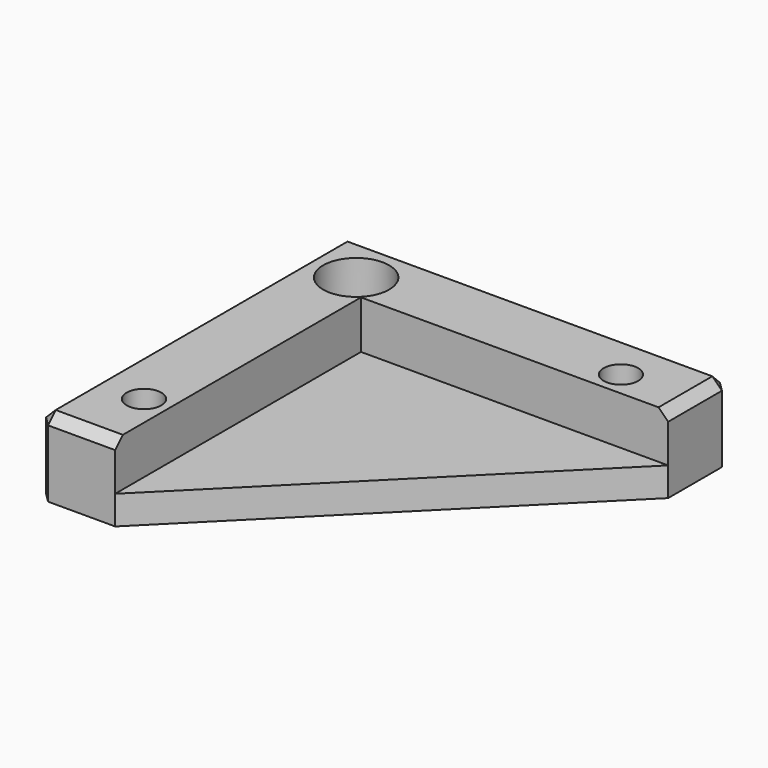
from build123d import *

# Parameters (mm, degrees)
F0_R     = 1.8
F0_R_2   = 3.435534
F1_DEPTH = 8
F2_DEPTH = 3
F3_R     = 1.8
F4_DEPTH = 2.4
F5_SIZE  = 1


with BuildPart() as f1:
    # F0 (on Top) → F1 (new body)
    with BuildSketch(Plane.XY):
        Polygon((34.5, 5.5), (-5.5, 5.5), (-5.5, -34.5), (2.5, -34.5), (2.5, -2.5), (34.5, -2.5), align=None)
        with Locations((-0.1, -27.5)):
            Circle(F0_R, mode=Mode.SUBTRACT)
        Circle(F0_R_2, mode=Mode.SUBTRACT)
        with Locations((27.5, 0.1)):
            Circle(F0_R, mode=Mode.SUBTRACT)
    extrude(amount=F1_DEPTH)

    # F0 (on Top) → F2 (join)
    with BuildSketch(Plane.XY):
        Polygon((2.5, -34.5), (34.5, -2.5), (2.5, -2.5), align=None)
        Circle(F0_R_2)
        Circle(F0_R, mode=Mode.SUBTRACT)
    extrude(amount=F2_DEPTH)

    # F3 (on face) → F4 (cut)
    with BuildSketch(Plane(origin=(0, 0, 0), x_dir=(1, 0, 0), z_dir=(0, 0, -1))):
        Polygon((-1.644435, 24.59402), (1.644435, 24.70949), (3.18887, 27.61547), (1.444435, 30.40598), (-1.844435, 30.29051), (-3.38887, 27.38453), align=None)
        with Locations((-0.1, 27.5)):
            Circle(F3_R, mode=Mode.SUBTRACT)
        Polygon((24.65, 1.545448), (24.65, -1.745448), (27.5, -3.390897), (30.35, -1.745448), (30.35, 1.545448), (27.5, 3.190897), align=None)
        with Locations((27.5, -0.1)):
            Circle(F3_R, mode=Mode.SUBTRACT)
    extrude(amount=-F4_DEPTH, mode=Mode.SUBTRACT)

    # F5
    f5_edges = [f1.edges().sort_by_distance(p)[0] for p in [
        (-5.5, 5.5, 4),
        (-5.5, -34.5, 4),
        (34.5, 5.5, 4),
        (14.5, 5.5, 8),
        (-5.5, -14.5, 8),
        (-1.5, -34.5, 8),
        (34.5, 1.5, 8),
    ]]
    chamfer(f5_edges, length=F5_SIZE)


solid = f1.part
